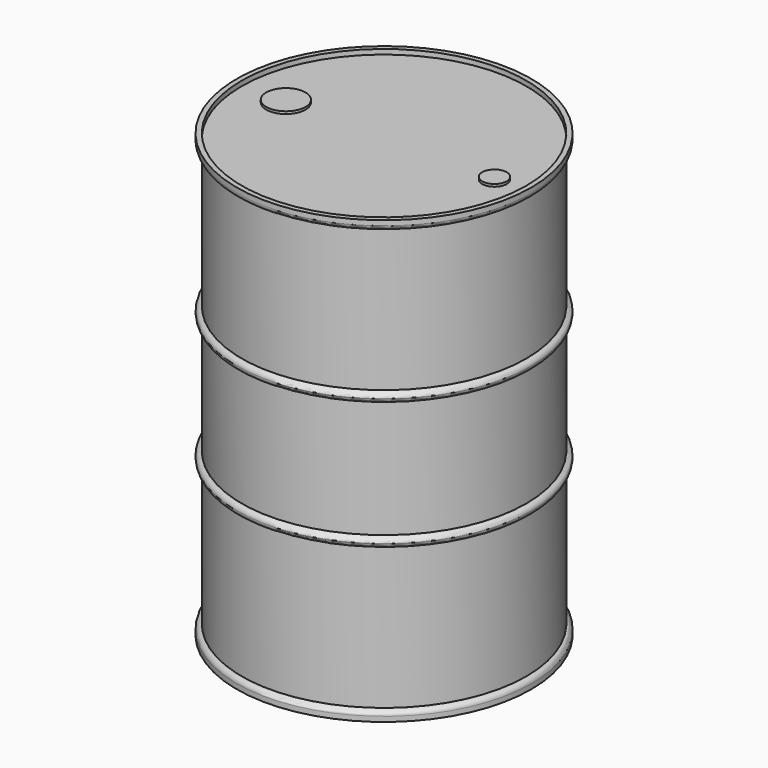
from build123d import *

# Parameters (mm, degrees)
SKETCH_R        = 290
PAD_DEPTH       = 290
SKETCH001_R     = 300
PAD001_DEPTH    = 20
SKETCH002_R     = 290
PAD002_DEPTH    = 240
SKETCH003_R     = 300
PAD003_DEPTH    = 20
SKETCH005_R     = 290
PAD004_DEPTH    = 290
FILLET_R        = 9.9
SKETCH006_R     = 300
PAD005_DEPTH    = 20
SKETCH007_R     = 300
PAD006_DEPTH    = 20
FILLET001_R     = 9.9
SKETCH008_R     = 290
POCKET_DEPTH    = 10
SKETCH009_R     = 290
POCKET001_DEPTH = 10
SKETCH010_R     = 40
SKETCH010_R_2   = 25
PAD007_DEPTH    = 5


with BuildPart() as part:
    # Sketch → Pad (new body)
    with BuildSketch(Plane.XY):
        Circle(SKETCH_R)
    extrude(amount=PAD_DEPTH)

    # Sketch001 (on Face3 of Pad) → Pad001 (join)
    with BuildSketch(Plane.XY.offset(290)):
        Circle(SKETCH001_R)
    extrude(amount=PAD001_DEPTH)

    # Sketch002 (on Face3 of Pad001) → Pad002 (join)
    with BuildSketch(Plane.XY.offset(310)):
        Circle(SKETCH002_R)
    extrude(amount=PAD002_DEPTH)

    # Sketch003 (on Face7 of Pad002) → Pad003 (join)
    with BuildSketch(Plane.XY.offset(550)):
        Circle(SKETCH003_R)
    extrude(amount=PAD003_DEPTH)

    # Sketch005 (on Face3 of Pad003) → Pad004 (join)
    with BuildSketch(Plane.XY.offset(570)):
        Circle(SKETCH005_R)
    extrude(amount=PAD004_DEPTH)

    # Fillet
    fillet_edges = [part.edges().sort_by_distance(p)[0] for p in [
        (300, 0, 560),
        (-300, 0, 550),
        (-300, 0, 570),
        (300, 0, 300),
        (-300, 0, 290),
        (-300, 0, 310),
    ]]
    fillet(fillet_edges, radius=FILLET_R)

    # Sketch006 (on Face9 of Fillet) → Pad005 (join)
    with BuildSketch(Plane.XY.offset(860)):
        Circle(SKETCH006_R)
    extrude(amount=PAD005_DEPTH)

    # Sketch007 (on Face17 of Pad005) → Pad006 (join)
    with BuildSketch(Plane(origin=(0, 0, 0), x_dir=(1, 0, 0), z_dir=(0, 0, -1))):
        Circle(SKETCH007_R)
    extrude(amount=PAD006_DEPTH)

    # Fillet001
    fillet001_edges = [part.edges().sort_by_distance(p)[0] for p in [
        (-300, 0, 860),
        (-300, 0, 0),
    ]]
    fillet(fillet001_edges, radius=FILLET001_R)

    # Sketch008 (on Face21 of Fillet001) → Pocket (cut)
    with BuildSketch(Plane.XY.offset(880)):
        Circle(SKETCH008_R)
    extrude(amount=-POCKET_DEPTH, mode=Mode.SUBTRACT)

    # Sketch009 (on Face3 of Pocket) → Pocket001 (cut)
    with BuildSketch(Plane(origin=(0, 0, -20), x_dir=(1, 0, 0), z_dir=(0, 0, -1))):
        Circle(SKETCH009_R)
    extrude(amount=-POCKET001_DEPTH, mode=Mode.SUBTRACT)

    # Sketch010 (on Face25 of Pocket001) → Pad007 (join)
    with BuildSketch(Plane.XY.offset(870)):
        with Locations((-200, 0)):
            Circle(SKETCH010_R)
        with Locations((225, 0)):
            Circle(SKETCH010_R_2)
    extrude(amount=PAD007_DEPTH)


solid = part.part
